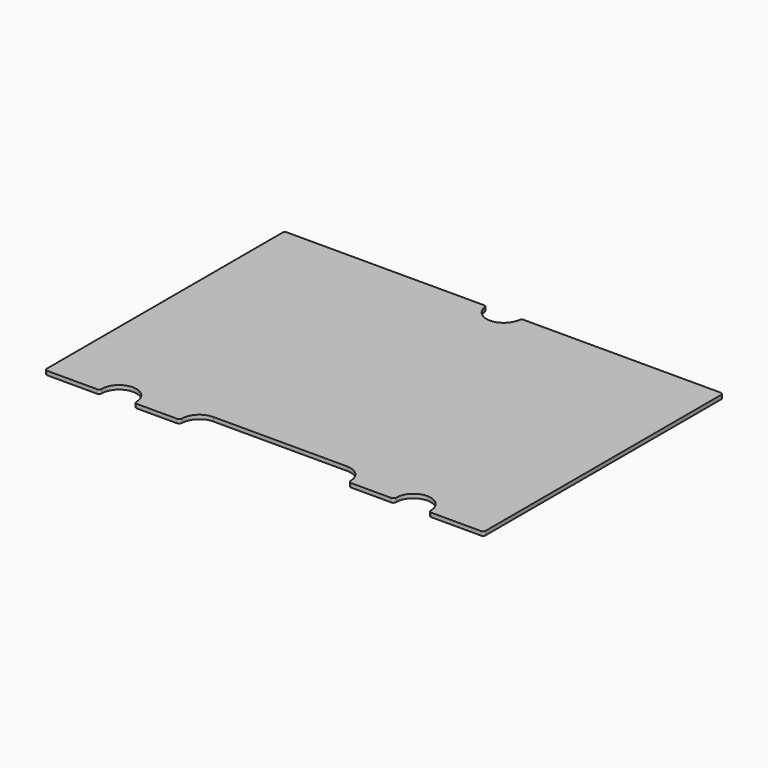
from build123d import *

# Parameters (mm, degrees)
EXTRUDE_DEPTH = 1.5


with BuildPart() as part:
    # Sketch → Extrude (new body)
    with BuildSketch(Plane.XY):
        with BuildLine():
            Line((82, -55), (82, 55))
            ThreePointArc((82, 55), (81.707107, 55.707107), (81, 56))
            Line((81, 56), (7.433034, 56))
            ThreePointArc((7.433034, 56), (6.774754, 55.752773), (6.441963, 55.133333))
            ThreePointArc((0, 49.5), (4.278824, 51.106978), (6.441963, 55.133333))
            ThreePointArc((-6.441963, 55.133333), (-4.278824, 51.106978), (0, 49.5))
            ThreePointArc((-6.441963, 55.133333), (-6.774754, 55.752773), (-7.433034, 56))
            Line((-81, 56), (-7.433034, 56))
            ThreePointArc((-81, 56), (-81.707107, 55.707107), (-82, 55))
            Line((-82, -55), (-82, 55))
            ThreePointArc((-82, -55), (-81.707107, -55.707107), (-81, -56))
            Line((-62.5, -56), (-81, -56))
            ThreePointArc((-62.5, -56), (-61.792893, -55.707107), (-61.5, -55))
            ThreePointArc((-48.5, -55), (-55, -48.5), (-61.5, -55))
            ThreePointArc((-48.5, -55), (-48.207107, -55.707107), (-47.5, -56))
            Line((-32.5, -56), (-47.5, -56))
            ThreePointArc((-32.5, -56), (-31.792893, -55.707107), (-31.5, -55))
            ThreePointArc((-25, -48.5), (-29.596194, -50.403806), (-31.5, -55))
            Line((-25, -48.5), (0, -48.5))
            Line((25, -48.5), (0, -48.5))
            ThreePointArc((31.5, -55), (29.596194, -50.403806), (25, -48.5))
            ThreePointArc((31.5, -55), (31.792893, -55.707107), (32.5, -56))
            Line((32.5, -56), (47.5, -56))
            ThreePointArc((47.5, -56), (48.207107, -55.707107), (48.5, -55))
            ThreePointArc((61.5, -55), (55, -48.5), (48.5, -55))
            ThreePointArc((61.5, -55), (61.792893, -55.707107), (62.5, -56))
            Line((62.5, -56), (81, -56))
            ThreePointArc((81, -56), (81.707107, -55.707107), (82, -55))
        make_face()
    extrude(amount=EXTRUDE_DEPTH)


solid = part.part
